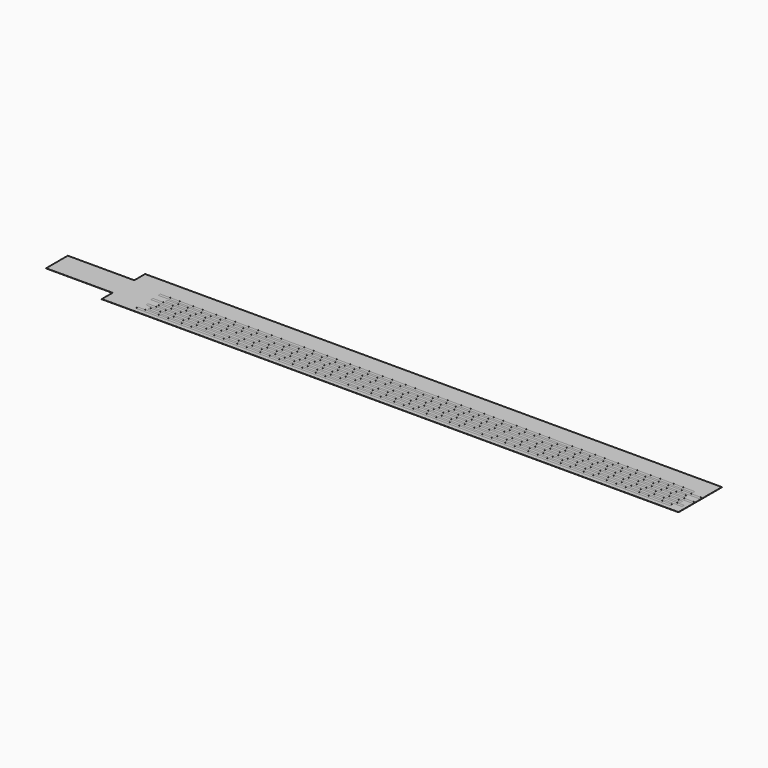
from build123d import *

# Parameters (mm, degrees)
PAD_DEPTH    = 0.07
SKETCH001_W  = 200
SKETCH001_H  = 1
POCKET_DEPTH = 0.007


with BuildPart() as part:
    # Sketch (on Face14 of Binder) → Pad (new body)
    with BuildSketch(Plane.XY.offset(3.5)):
        Polygon((0, 20.3), (215.86, 20.3), (215.86, 0), (0, 0), (0, 5.07), (-24.89, 5.07), (-24.89, 15.23), (0, 15.23), align=None)
    extrude(amount=PAD_DEPTH)

    # Sketch001 (on Face10 of Pad) → Pocket (cut)
    with BuildSketch(Plane.XY.offset(3.57)):
        with Locations((115.461089, 7.4)):
            Rectangle(SKETCH001_W, SKETCH001_H)
        with Locations((111.43, 2.15)):
            Rectangle(SKETCH001_W, SKETCH001_H)
        with Locations((114.461089, 3.9)):
            Rectangle(SKETCH001_W, SKETCH001_H)
        with Locations((111.43, 9.15)):
            Rectangle(SKETCH001_W, SKETCH001_H)
        with Locations((111.43, 12.65)):
            Rectangle(SKETCH001_W, SKETCH001_H)
        with Locations((112.43, 5.65)):
            Rectangle(SKETCH001_W, SKETCH001_H)
        with Locations((115.461089, 10.9)):
            Rectangle(SKETCH001_W, SKETCH001_H)
    extrude(amount=-POCKET_DEPTH, mode=Mode.SUBTRACT)


solid = part.part
